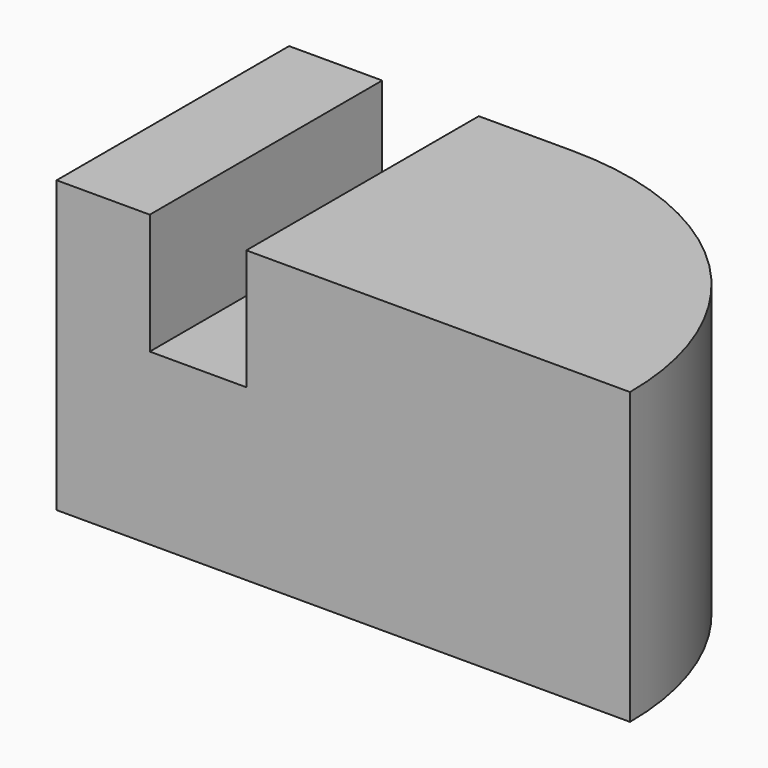
from build123d import *

# Parameters (mm, degrees)
F1_DEPTH  = 76.2
F1_FACE_W = 76.2
F1_FACE_H = 76.1486887932
F2_ANGLE  = 90


with BuildPart() as f1:
    # F0 (on Front) → F1 (new body)
    with BuildSketch(Plane.XZ):
        Polygon((-16.163635999, 44.2704036832), (-40.5886881053, 44.2704036832), (-40.5886881053, -31.87828511), (33.584445715, -31.87828511), (33.584445715, 44.2704036832), (9.1593926772, 44.2704036832), (9.1593926772, 12.6615148038), (-16.163635999, 12.6615148038), align=None)
    extrude(amount=F1_DEPTH)

    # F1_face (on face) → F2 (revolve)
    with BuildSketch(Plane(origin=(33.584445715, -38.1, 6.1960592866), x_dir=(0, 1, 0), z_dir=(1, 0, 0))):
        Rectangle(F1_FACE_W, F1_FACE_H)
    revolve(axis=Axis((33.584445715, -76.2, 6.1960592866), (0, 0, -1)), revolution_arc=F2_ANGLE)


solid = f1.part
